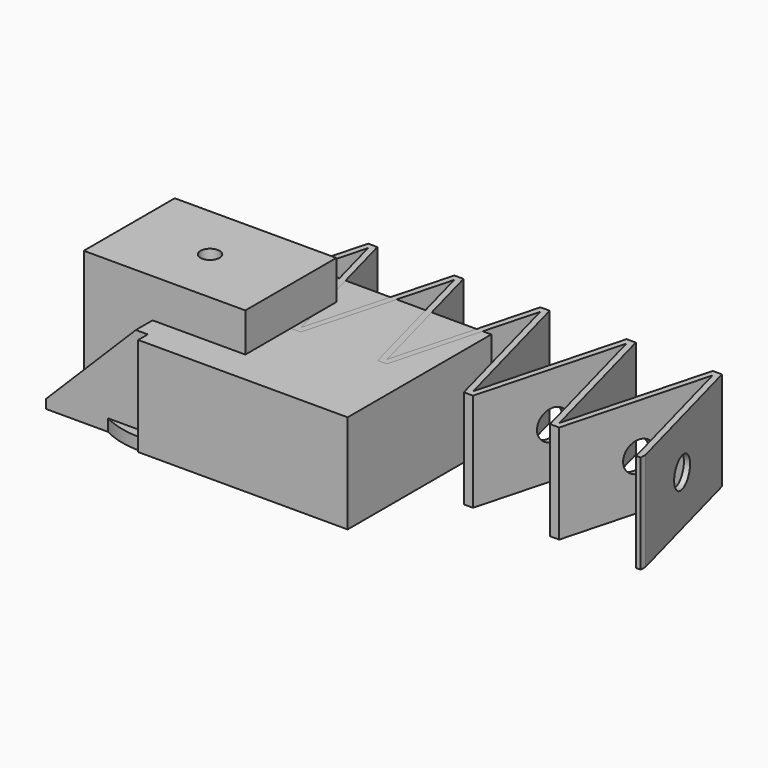
from build123d import *

# Parameters (mm, degrees)
SKETCH_R             = 14.617692
PAD_DEPTH            = 2
SKETCH001_W          = 17
SKETCH001_H          = 9
PAD001_DEPTH         = 15
SKETCH002_R          = 1.6
POCKET_DEPTH         = 15
PAD002_DEPTH         = 16.5
CHAMFER_SIZE         = 15
PAD003_DEPTH         = 16.5
SKETCH010_R          = 2.5
POCKET002_DEPTH      = 0.001
POCKET002_DEPTH_BACK = -71.982076
SKETCH007_W          = 27
SKETCH007_H          = 19
SKETCH007_W_2        = 17.5
SKETCH007_H_2        = 9.5
PAD004_DEPTH         = 19
SKETCH008_W          = 27
SKETCH008_H          = 19
PAD005_DEPTH         = 2
SKETCH009_R          = 1.6
POCKET001_DEPTH      = 21.001


with BuildPart() as bolt:
    # Sketch → Pad (new body)
    with BuildSketch(Plane.XY):
        Circle(SKETCH_R)
    extrude(amount=PAD_DEPTH)

    # Sketch001 (on DatumPlane) → Pad001 (join)
    with BuildSketch(Plane.XY.offset(2)):
        Rectangle(SKETCH001_W, SKETCH001_H)
    extrude(amount=PAD001_DEPTH)

    # Sketch002 (on DatumPlane) → Pocket (cut)
    with BuildSketch(Plane.XY.offset(17)):
        Circle(SKETCH002_R)
    extrude(amount=-POCKET_DEPTH, mode=Mode.SUBTRACT)


with BuildPart() as latch:
    # Sketch003 → Pad002 (new body)
    with BuildSketch(Plane.XY):
        Polygon((-17, 13), (-2, 13), (0, 13), (0, 15), (35, 15), (35, -15), (0, -15), (0, -13), (-2, -13), (-17, -13), align=None)
    extrude(amount=PAD002_DEPTH)

    # Chamfer
    chamfer_edges = [latch.edges().sort_by_distance(p)[0] for p in [
        (-17, 0, 16.5),
    ]]
    chamfer(chamfer_edges, length=CHAMFER_SIZE)


with BuildPart() as spring:
    # Sketch005 → Pad003 (new body)
    with BuildSketch(Plane.XY):
        Polygon((0, 1), (6.430781, 25), (7.965435, 25), (14.396215, 1), (20.826996, 25), (22.36165, 25), (28.79243, 1), (35.223211, 25), (36.757865, 25), (43.188646, 1), (49.619426, 25), (51.15408, 25), (57.584861, 1), (64.015641, 25), (65.550295, 25), (71.981076, 1), (71.981076, 0), (71.213749, 0), (64.782968, 24), (58.352188, 0), (56.817534, 0), (50.386753, 24), (43.955973, 0), (42.421319, 0), (35.990538, 24), (29.559757, 0), (28.025103, 0), (21.594323, 24), (15.163542, 0), (13.628888, 0), (7.198108, 24), (0.767327, 0), (0, 0), align=None)
    extrude(amount=PAD003_DEPTH)

    # Sketch010 → Pocket002 (cut, two sides)
    with BuildSketch(Plane.YZ) as pocket002_sk:
        with Locations((12.5, 8.25)):
            Circle(SKETCH010_R)
    extrude(amount=-POCKET002_DEPTH, mode=Mode.SUBTRACT)
    extrude(pocket002_sk.sketch, amount=-POCKET002_DEPTH_BACK, mode=Mode.SUBTRACT)


with BuildPart() as counterbolt:
    # Sketch007 (on Origin) → Pad004 (new body)
    with BuildSketch(Plane.XY.offset(2)):
        Rectangle(SKETCH007_W, SKETCH007_H)
        Rectangle(SKETCH007_W_2, SKETCH007_H_2, mode=Mode.SUBTRACT)
    extrude(amount=PAD004_DEPTH)

    # Sketch008 (on DatumPlane) → Pad005 (join)
    with BuildSketch(Plane.XY.offset(21)):
        Rectangle(SKETCH008_W, SKETCH008_H)
    extrude(amount=PAD005_DEPTH)

    # Sketch009 (on DatumPlane) → Pocket001 (cut, through all)
    with BuildSketch(Plane.XY.offset(23)):
        Circle(SKETCH009_R)
    extrude(amount=-POCKET001_DEPTH, mode=Mode.SUBTRACT)


solid = Compound([bolt.part, latch.part, spring.part, counterbolt.part])
